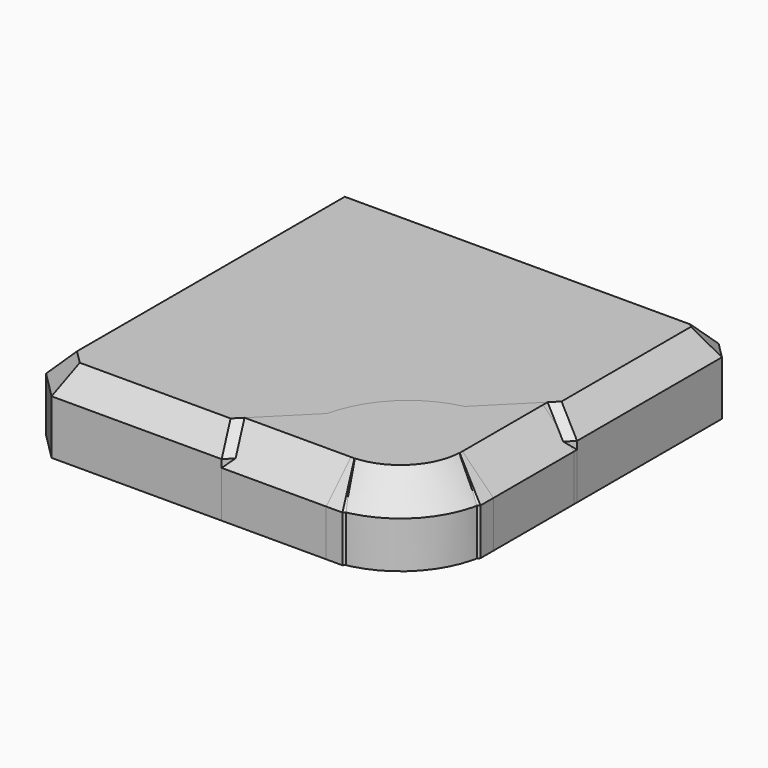
from build123d import *

# Parameters (mm, degrees)
PAD_DEPTH       = 10
CHAMFER_SIZE    = 4
PAD001_DEPTH    = 10
CHAMFER001_SIZE = 4
PAD002_DEPTH    = 10
CHAMFER002_SIZE = 3


with BuildPart() as f_2body:
    # Sketch → Pad (new body)
    with BuildSketch(Plane.XY):
        Polygon((-25.5, 19.843146), (-25.5, -21.257359), (-21.257359, -25.5), (15.600505, -25.5), (25.5, -15.600505), (25.5, 18.428932), (18.428932, 25.5), (-19.843146, 25.5), align=None)
    extrude(amount=PAD_DEPTH)

    # Chamfer
    chamfer_edges = [f_2body.edges().sort_by_distance(p)[0] for p in [
        (-2.828427, -25.5, 10),
        (-23.37868, -23.37868, 10),
        (-25.5, -0.707107, 10),
        (-22.671573, 22.671573, 10),
        (-0.707107, 25.5, 10),
        (21.964466, 21.964466, 10),
        (25.5, 1.414214, 10),
        (20.550253, -20.550253, 10),
    ]]
    chamfer(chamfer_edges, length=CHAMFER_SIZE)


with BuildPart() as f_4body:
    # Sketch001 → Pad001 (new body)
    with BuildSketch(Plane.XY):
        with BuildLine():
            Line((-3.5, -25.5), (13.5, -25.5))
            ThreePointArc((13.5, -25.5), (21.985281, -21.985281), (25.5, -13.5))
            Line((25.5, -13.5), (25.5, -0.5))
            ThreePointArc((25.5, -0.5), (17.884776, 17.884776), (-0.5, 25.5))
            Line((-0.5, 25.5), (-21.964466, 25.5))
            Line((-21.964466, 25.5), (-25.5, 21.964466))
            Line((-25.5, 21.964466), (-25.5, -3.5))
            ThreePointArc((-25.5, -3.5), (-19.056349, -19.056349), (-3.5, -25.5))
        make_face()
    extrude(amount=PAD001_DEPTH)

    # Chamfer001
    chamfer001_edges = [f_4body.edges().sort_by_distance(p)[0] for p in [
        (-23.732233, 23.732233, 10),
        (-11.232233, 25.5, 10),
        (17.884776, 17.884776, 10),
        (25.5, -7, 10),
        (21.985281, -21.985281, 10),
        (5, -25.5, 10),
        (-19.056349, -19.056349, 10),
        (-25.5, 9.232233, 10),
    ]]
    chamfer(chamfer001_edges, length=CHAMFER001_SIZE)


with BuildPart() as f_3body:
    # Sketch002 → Pad002 (new body)
    with BuildSketch(Plane.XY):
        with BuildLine():
            Line((-25.5, 25.5), (-25.5, -21.964466))
            Line((-21.964466, -25.5), (-25.5, -21.964466))
            Line((-21.964466, -25.5), (0, -25.5))
            Line((0, -25.5), (8.485281, -17.014719))
            ThreePointArc((17.014719, -8.485281), (11.31916, -11.31916), (8.485281, -17.014719))
            Line((25.5, 0), (17.014719, -8.485281))
            Line((25.5, 23.37868), (25.5, 0))
            Line((25.5, 23.37868), (23.37868, 25.5))
            Line((-25.5, 25.5), (23.37868, 25.5))
        make_face()
    extrude(amount=PAD002_DEPTH)

    # Chamfer002
    chamfer002_edges = [f_3body.edges().sort_by_distance(p)[0] for p in [
        (-25.5, 1.767767, 10),
        (-1.06066, 25.5, 10),
        (24.43934, 24.43934, 10),
        (25.5, 11.68934, 10),
        (21.257359, -4.242641, 10),
        (11.31916, -11.31916, 10),
        (4.242641, -21.257359, 10),
        (-10.982233, -25.5, 10),
        (-23.732233, -23.732233, 10),
    ]]
    chamfer(chamfer002_edges, length=CHAMFER002_SIZE)


solid = Compound([f_2body.part, f_4body.part, f_3body.part])
